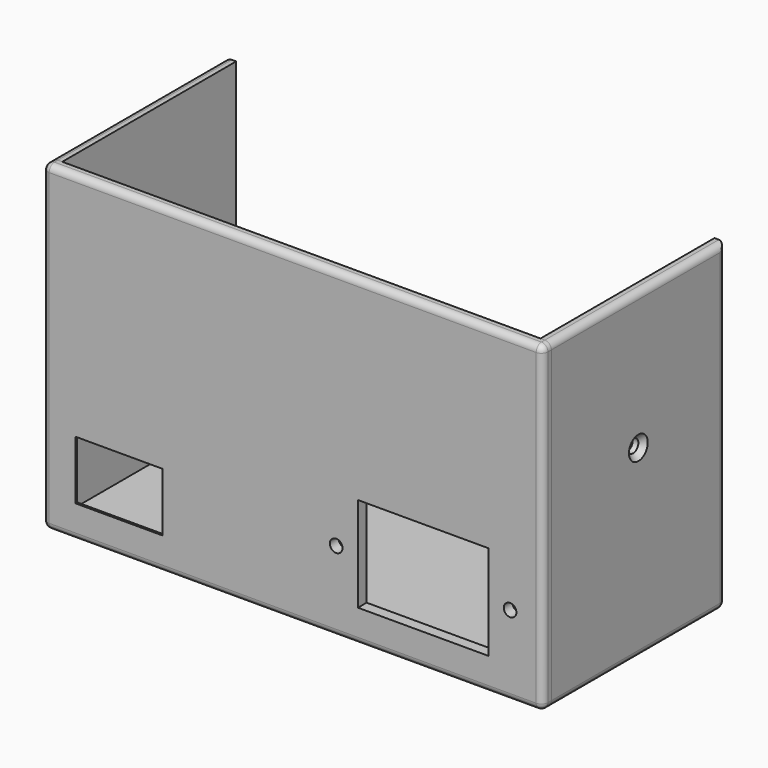
from build123d import *

# Parameters (mm, degrees)
F0_W           = 110
F0_H           = 69
F0_W_2         = 20
F0_H_2         = 13.5
F0_R           = 1.45
F0_W_3         = 30
F0_H_3         = 21.8
F0_H_4         = 2.5
F1_DEPTH       = 2.5
F2_DEPTH       = 50
F4_D           = 3
F4_DEPTH       = 12
F4_CSINK_D     = 5.4
F4_CSINK_ANGLE = 90
F5_SIZE        = 2
F6_R           = 1.5
F6_2_R         = 1.5


with BuildPart() as f1:
    # F0 (on Front) → F1 (new body)
    with BuildSketch(Plane.XZ):
        Rectangle(F0_W, F0_H)
        with Locations((-40, -22.75)):
            Rectangle(F0_W_2, F0_H_2, mode=Mode.SUBTRACT)
        with Locations((10, -18.6)):
            Circle(F0_R, mode=Mode.SUBTRACT)
        with Locations((30, -18.6)):
            Rectangle(F0_W_3, F0_H_3, mode=Mode.SUBTRACT)
        with Locations((50, -18.6)):
            Circle(F0_R, mode=Mode.SUBTRACT)
        Polygon((57.5, -37), (57.5, 37), (55, 37), (55, 34.5), (55, -34.5), (-55, -34.5), (-55, 34.5), (-55, 37), (-57.5, 37), (-57.5, -37), align=None)
        with Locations((0, 35.75)):
            Rectangle(F0_W, F0_H_4)
    extrude(amount=F1_DEPTH)

    # F5
    f5_edges = [f1.edges().sort_by_distance(p)[0] for p in [
        (-30, 0, -22.75),
        (-40, 0, -16),
        (-40, 0, -29.5),
        (-50, 0, -22.75),
    ]]
    chamfer(f5_edges, length=F5_SIZE)

    # F6#2
    f6_2_edges = [f1.edges().sort_by_distance(p)[0] for p in [
        (-57.5, -1.25, 37),
        (-57.5, -2.5, 0),
        (0, -2.5, 37),
        (-57.5, -1.25, -37),
        (0, -2.5, -37),
        (57.5, -2.5, 0),
        (57.5, -1.25, 37),
        (57.5, -1.25, -37),
    ]]
    fillet(f6_2_edges, radius=F6_2_R)


with BuildPart() as f2:
    # F0 (on Front) → F2 (new body)
    with BuildSketch(Plane.XZ):
        Polygon((57.5, -37), (57.5, 37), (55, 37), (55, 34.5), (55, -34.5), (-55, -34.5), (-55, 34.5), (-55, 37), (-57.5, 37), (-57.5, -37), align=None)
    extrude(amount=-F2_DEPTH)

    # F4
    with Locations(Plane.YZ.offset(57.5)):
        with Locations((25, 5.5)):
            CounterSinkHole(F4_D / 2, F4_CSINK_D / 2, depth=F4_DEPTH, counter_sink_angle=F4_CSINK_ANGLE)

    # F6
    f6_edges = [f2.edges().sort_by_distance(p)[0] for p in [
        (-57.5, 25, 37),
        (-57.5, 25, -37),
        (57.5, 25, 37),
        (57.5, 25, -37),
        (57.5, 50, 0),
        (-57.5, 50, 0),
        (0, 50, -37),
    ]]
    fillet(f6_edges, radius=F6_R)


solid = Compound([f1.part, f2.part])
